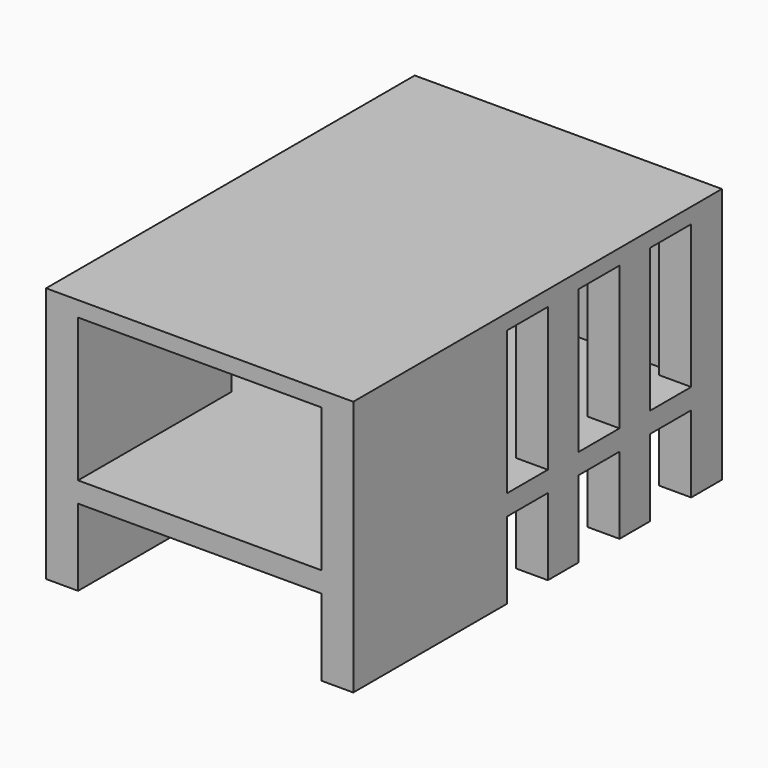
from build123d import *

# Parameters (mm, degrees)
F0_W      = 600
F0_H      = 900
F1_DEPTH  = 500
F2_W      = 475
F2_H      = 150
F3_DEPTH  = 1705
F4_W      = 475
F4_H      = 280
F5_DEPTH  = 846
F6_W      = 100
F6_H      = 500
F7_DEPTH  = 63
F8_DEPTH  = 63
F9_DEPTH  = 63
F10_DEPTH = 63
F11_DEPTH = 63
F13_W     = 100
F13_H     = 500
F14_DEPTH = 63
F15_DEPTH = 63
F16_DEPTH = 63


with BuildPart() as f1:
    # F0 (on Top) → F1 (new body)
    with BuildSketch(Plane.XY):
        Rectangle(F0_W, F0_H)
    extrude(amount=F1_DEPTH)

    # F2 (on face) → F3 (cut)
    with BuildSketch(Plane.XZ.offset(450)):
        with Locations((0, 75)):
            Rectangle(F2_W, F2_H)
    extrude(amount=-F3_DEPTH, mode=Mode.SUBTRACT)

    # F4 (on face) → F5 (cut)
    with BuildSketch(Plane.XZ.offset(450)):
        with Locations((0, 330)):
            Rectangle(F4_W, F4_H)
    extrude(amount=-F5_DEPTH, mode=Mode.SUBTRACT)

    # F6 (on face) → F7 (cut)
    with BuildSketch(Plane.YZ.offset(300)):
        with Locations((-25, 250)):
            Rectangle(F6_W, F6_H)
    extrude(amount=-F7_DEPTH, mode=Mode.SUBTRACT)

    # F8 (add): a face of the model
    f8_faces = [f1.faces().sort_by_distance(p)[0] for p in [
        (237, -25, 485),
    ]]
    extrude(f8_faces, amount=F8_DEPTH)

    # F9 (add): a face of the model
    f9_faces = [f1.faces().sort_by_distance(p)[0] for p in [
        (237, -25, 170),
    ]]
    extrude(f9_faces, amount=F9_DEPTH)

    # F6 (on face) → F10 (cut)
    with BuildSketch(Plane.YZ.offset(300)):
        with Locations((325, 250)):
            Rectangle(F6_W, F6_H)
        with Locations((150, 250)):
            Rectangle(F6_W, F6_H)
        with Locations((-25, 250)):
            Rectangle(F6_W, F6_H)
    extrude(amount=-F10_DEPTH, mode=Mode.SUBTRACT)

    # F11 (add): faces of the model
    f11_faces = [f1.faces().sort_by_distance(p)[0] for p in [
        (237, -25, 485),
        (237, 150, 485),
        (237, 325, 485),
        (237, 325, 170),
        (237, 150, 170),
        (237, -25, 170),
    ]]
    extrude(f11_faces, amount=F11_DEPTH)

    # F13 (on face) → F14 (cut)
    with BuildSketch(Plane(origin=(-300, 0, 0), x_dir=(0, -1, 0), z_dir=(-1, 0, 0))):
        with Locations((-325, 250)):
            Rectangle(F13_W, F13_H)
        with Locations((-150, 250)):
            Rectangle(F13_W, F13_H)
        with Locations((25, 250)):
            Rectangle(F13_W, F13_H)
    extrude(amount=-F14_DEPTH, mode=Mode.SUBTRACT)

    # F15 (add): faces of the model
    f15_faces = [f1.faces().sort_by_distance(p)[0] for p in [
        (-237, 325, 485),
        (-237, 150, 485),
        (-237, -25, 485),
    ]]
    extrude(f15_faces, amount=F15_DEPTH)

    # F16 (add): faces of the model
    f16_faces = [f1.faces().sort_by_distance(p)[0] for p in [
        (-237, 325, 170),
        (-237, 150, 170),
        (-237, -25, 170),
    ]]
    extrude(f16_faces, amount=F16_DEPTH)


solid = f1.part
